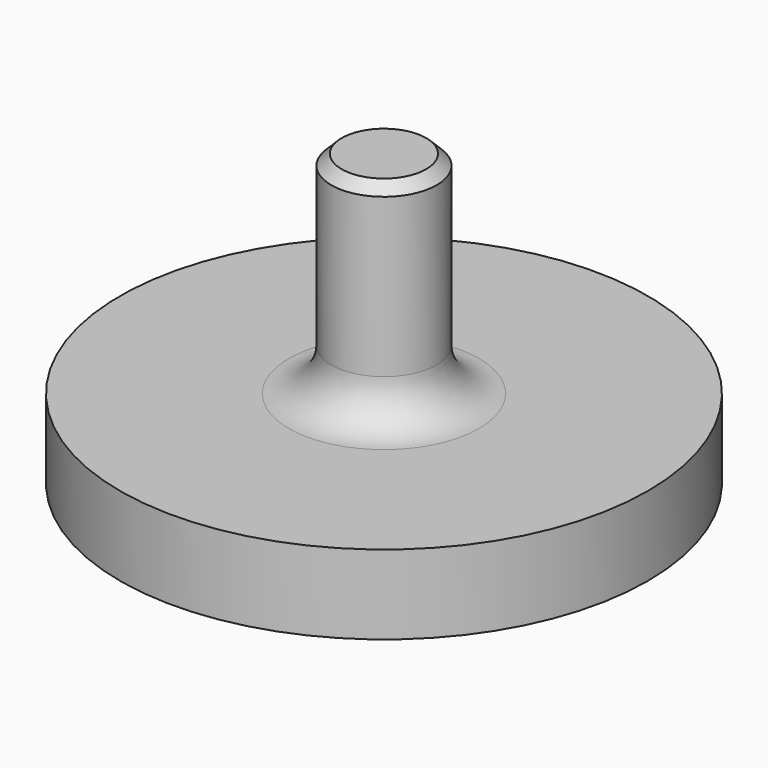
from build123d import *

# Parameters (mm, degrees)
F2_SIZE = 50.8


with BuildPart() as f1:
    # F0 (on Front) → F1 (revolve)
    with BuildSketch(Plane.XZ):
        with BuildLine():
            Line((254, 1778), (0, 1778))
            Line((0, 1778), (0, 0))
            Line((0, 0), (1270, 381))
            Line((1270, 381), (1270, 762))
            Line((1270, 762), (457.2, 762))
            ThreePointArc((457.2, 762), (313.515902, 821.515902), (254, 965.2))
            Line((254, 965.2), (254, 1778))
        make_face()
    revolve(axis=Axis((0, 0, 170.350316), (0, 0, -1)))

    # F2
    f2_edges = [f1.edges().sort_by_distance(p)[0] for p in [
        (-254, 0, 1778),
    ]]
    chamfer(f2_edges, length=F2_SIZE)


solid = f1.part
